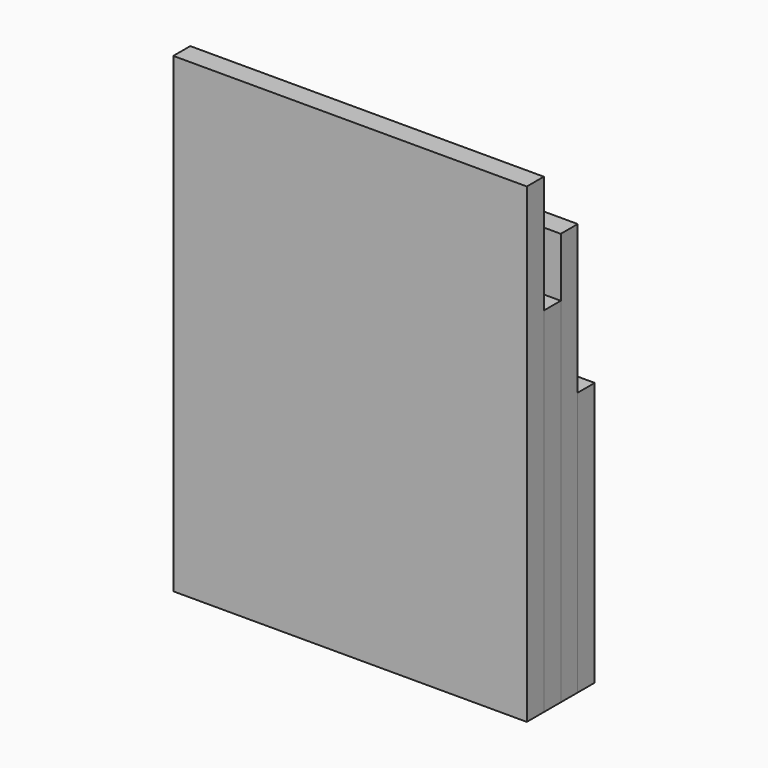
from build123d import *

# Parameters (mm, degrees)
F0_W     = 300
F0_H     = 400
F1_DEPTH = 18
F2_W     = 300
F2_H     = 300
F3_DEPTH = 18
F4_W     = 300
F4_H     = 350
F5_DEPTH = 18
F6_W     = 300
F6_H     = 224
F7_DEPTH = 18


with BuildPart() as f1:
    # F0 (on Front) → F1 (new body)
    with BuildSketch(Plane.XZ):
        with Locations((150, -200)):
            Rectangle(F0_W, F0_H)
    extrude(amount=-F1_DEPTH)


with BuildPart() as f3:
    # F2 (on face) → F3 (new body)
    with BuildSketch(Plane(origin=(0, 18, 0), x_dir=(-1, 0, 0), z_dir=(0, 1, 0))):
        with Locations((-150, -250)):
            Rectangle(F2_W, F2_H)
    extrude(amount=F3_DEPTH)


with BuildPart() as f5:
    # F4 (on face) → F5 (new body)
    with BuildSketch(Plane(origin=(0, 36, 0), x_dir=(-1, 0, 0), z_dir=(0, 1, 0))):
        with Locations((-150, -225)):
            Rectangle(F4_W, F4_H)
    extrude(amount=F5_DEPTH)


with BuildPart() as f7:
    # F6 (on face) → F7 (new body)
    with BuildSketch(Plane(origin=(0, 54, 0), x_dir=(-1, 0, 0), z_dir=(0, 1, 0))):
        with Locations((-150, -288)):
            Rectangle(F6_W, F6_H)
    extrude(amount=F7_DEPTH)


solid = Compound([f1.part, f3.part, f5.part, f7.part])
